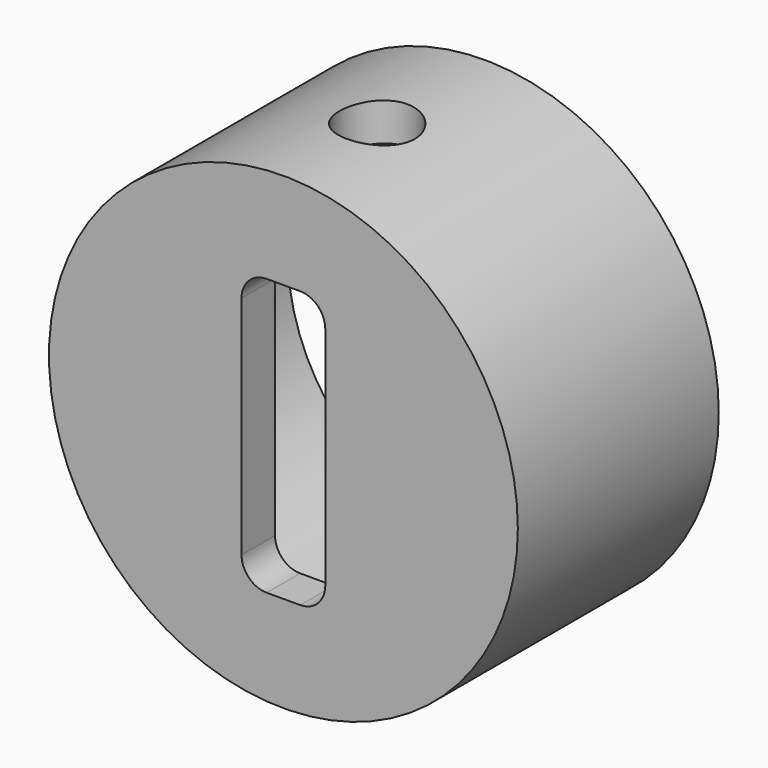
from build123d import *

# Parameters (mm, degrees)
F0_R          = 28
F0_R_2        = 23.5
F1_DEPTH      = 25
F2_R          = 28
F3_DEPTH      = 5
F5_R          = 4.5
F6_DEPTH      = 50
F6_DEPTH_BACK = 50


with BuildPart() as f1:
    # F0 (on Front) → F1 (new body)
    with BuildSketch(Plane.XZ):
        Circle(F0_R)
        Circle(F0_R_2, mode=Mode.SUBTRACT)
    extrude(amount=F1_DEPTH)

    # F2 (on face) → F3 (join)
    with BuildSketch(Plane.XZ.offset(25)):
        Circle(F2_R)
        with BuildLine():
            Line((-5, -13.5), (-5, 13.5))
            ThreePointArc((-5, 13.5), (-4.12132, 15.62132), (-2, 16.5))
            Line((-2, 16.5), (2, 16.5))
            ThreePointArc((2, 16.5), (4.12132, 15.62132), (5, 13.5))
            Line((5, 13.5), (5, -13.5))
            ThreePointArc((5, -13.5), (4.12132, -15.62132), (2, -16.5))
            Line((2, -16.5), (-2, -16.5))
            ThreePointArc((-2, -16.5), (-4.12132, -15.62132), (-5, -13.5))
        make_face(mode=Mode.SUBTRACT)
    extrude(amount=F3_DEPTH)

    # F5 (on Top) → F6 (cut, two sides)
    with BuildSketch(Plane.XY) as f6_sk:
        with Locations((0, -16)):
            Circle(F5_R)
    extrude(amount=F6_DEPTH, mode=Mode.SUBTRACT)
    extrude(f6_sk.sketch, amount=-F6_DEPTH_BACK, mode=Mode.SUBTRACT)


solid = f1.part
